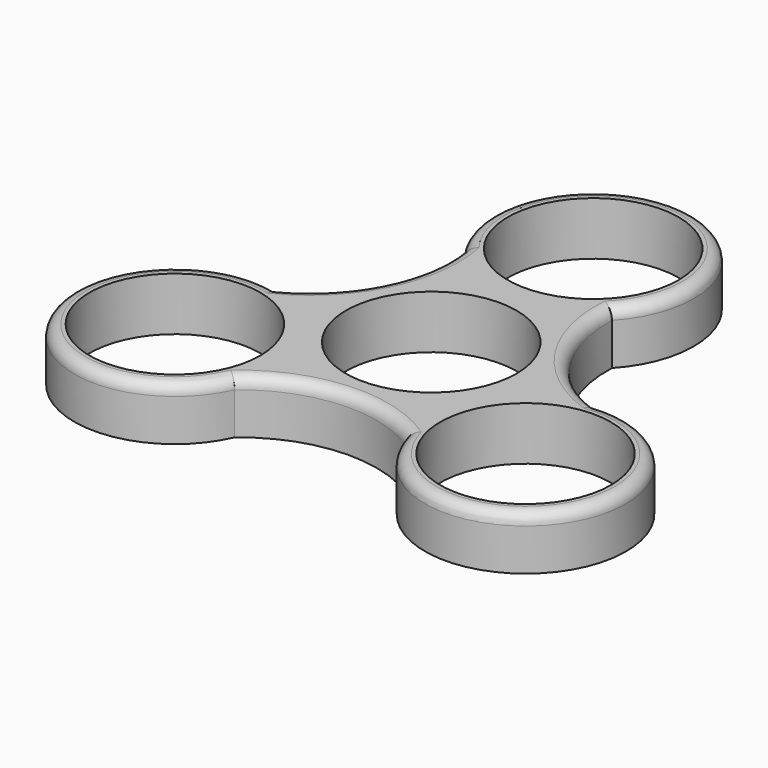
from build123d import *

# Parameters (mm, degrees)
F0_R     = 11.2
F1_DEPTH = 7
F2_R     = 1.5


with BuildPart() as f1:
    # F0 (on Top) → F1 (new body)
    with BuildSketch(Plane.XY):
        with BuildLine():
            ThreePointArc((21.573992, -0.156424), (12.716124, 6.751931), (9.658758, 17.561174))
            ThreePointArc((9.658758, 17.561174), (0.778972, 39.735301), (-10.651529, 18.761837))
            ThreePointArc((-10.651529, 18.761837), (-12.205406, 7.636521), (-20.037801, -0.415857))
            ThreePointArc((-20.037801, -0.415857), (-34.801266, -19.193041), (-10.922463, -18.605414))
            ThreePointArc((-10.922463, -18.605414), (-0.510718, -14.388452), (10.379043, -17.145317))
            ThreePointArc((10.379043, -17.145317), (34.022294, -20.54226), (21.573992, -0.156424))
        make_face()
        with Locations((-23.000168, -13.279153)):
            Circle(F0_R, mode=Mode.SUBTRACT)
        with Locations((23.000168, -13.279153)):
            Circle(F0_R, mode=Mode.SUBTRACT)
        Circle(F0_R, mode=Mode.SUBTRACT)
        with Locations((0, 26.558306)):
            Circle(F0_R, mode=Mode.SUBTRACT)
    extrude(amount=F1_DEPTH)

    # F2
    f2_edges = [f1.edges().sort_by_distance(p)[0] for p in [
        (-0.510718, -14.388452, 7),
        (-34.801266, -19.193041, 7),
        (-12.205406, 7.636521, 7),
        (0.778972, 39.735301, 7),
        (12.716124, 6.751931, 7),
        (34.022294, -20.54226, 7),
    ]]
    fillet(f2_edges, radius=F2_R)


solid = f1.part
